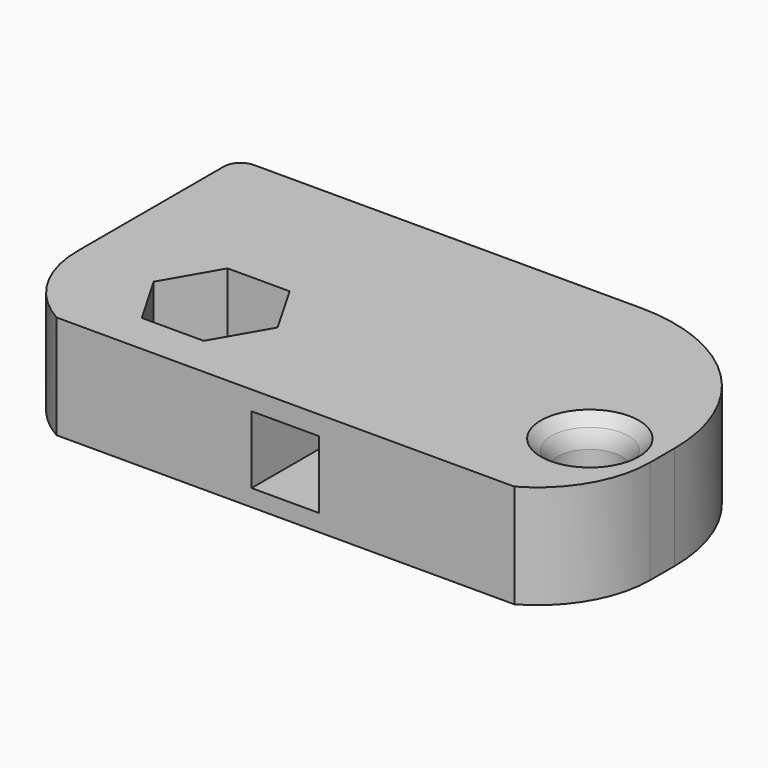
from build123d import *

# Parameters (mm, degrees)
SKETCH090_W     = 50.8
SKETCH090_H     = 27.7
PAD023_DEPTH    = 9.2
SKETCH091_W     = 6
SKETCH091_H     = 6
POCKET075_DEPTH = 10.2
SKETCH092_R     = 3
POCKET076_DEPTH = 11
POCKET077_DEPTH = 30.9
SKETCH094_R     = 2.85
POCKET078_DEPTH = 9.201
POCKET079_DEPTH = 9.201
SKETCH096_W     = 6.5
SKETCH096_H     = 6.5
PAD024_DEPTH    = 1.75
SKETCH097_W     = 5.2
SKETCH097_H     = 5.2
POCKET080_DEPTH = 1.75
FILLET004_R     = 10
FILLET005_R     = 15
FILLET006_R     = 1.5
SKETCH098_W     = 54.781057
SKETCH098_H     = 5.471817
POCKET081_DEPTH = 9.201
CHAMFER014_SIZE = 1.5
FILLET007_R     = 2


with BuildPart() as part:
    # Sketch090 → Pad023 (new body)
    with BuildSketch(Plane.XY):
        with Locations((0, -13.85)):
            Rectangle(SKETCH090_W, SKETCH090_H)
    extrude(amount=PAD023_DEPTH)

    # Sketch091 (on Face2 of Pad023) → Pocket075 (cut)
    with BuildSketch(Plane.XZ.offset(27.7)):
        with Locations((0, 4.5)):
            Rectangle(SKETCH091_W, SKETCH091_H)
    extrude(amount=-POCKET075_DEPTH, mode=Mode.SUBTRACT)

    # Sketch092 (on Face11 of Pocket075) → Pocket076 (cut)
    with BuildSketch(Plane.XZ.offset(17.5)):
        with Locations((0, 4.6)):
            Circle(SKETCH092_R)
    extrude(amount=-POCKET076_DEPTH, mode=Mode.SUBTRACT)

    # Sketch093 (on Face1 of Pocket076) → Pocket077 (cut)
    with BuildSketch(Plane(origin=(-25.4, 0, 0), x_dir=(0, -1, 0), z_dir=(-1, 0, 0))):
        Polygon((6.65774, 6.029261), (4.216094, 7.399795), (1.808354, 5.970534), (1.84226, 3.170739), (4.283906, 1.800205), (6.691646, 3.229466), align=None)
    extrude(amount=-POCKET077_DEPTH, mode=Mode.SUBTRACT)

    # Sketch094 (on Face4 of Pocket077) → Pocket078 (cut, through all)
    with BuildSketch(Plane.XY.offset(9.2)):
        with Locations((19.9, -17.515)):
            Circle(SKETCH094_R)
    extrude(amount=-POCKET078_DEPTH, mode=Mode.SUBTRACT)

    # Sketch095 (on Face4 of Pocket078) → Pocket079 (cut, through all)
    with BuildSketch(Plane.XY.offset(9.2)):
        Polygon((-7.4, -18.015), (-10.15, -13.25186), (-15.65, -13.25186), (-18.4, -18.015), (-15.65, -22.77814), (-10.15, -22.77814), align=None)
    extrude(amount=-POCKET079_DEPTH, mode=Mode.SUBTRACT)

    # Sketch096 (on Face5 of Pocket079) → Pad024 (join)
    with BuildSketch(Plane.XZ.offset(27.7)):
        with Locations((0, 4.6)):
            Rectangle(SKETCH096_W, SKETCH096_H)
    extrude(amount=PAD024_DEPTH)

    # Sketch097 (on Face29 of Pad024) → Pocket080 (cut)
    with BuildSketch(Plane.XZ.offset(29.45)):
        with Locations((0, 4.6)):
            Rectangle(SKETCH097_W, SKETCH097_H)
    extrude(amount=-POCKET080_DEPTH, mode=Mode.SUBTRACT)

    # Fillet004
    fillet004_edges = [part.edges().sort_by_distance(p)[0] for p in [
        (-25.4, -27.7, 4.6),
        (25.4, -27.7, 4.6),
    ]]
    fillet(fillet004_edges, radius=FILLET004_R)

    # Fillet005
    fillet005_edges = [part.edges().sort_by_distance(p)[0] for p in [
        (25.4, 0, 4.6),
    ]]
    fillet(fillet005_edges, radius=FILLET005_R)

    # Fillet006
    fillet006_edges = [part.edges().sort_by_distance(p)[0] for p in [
        (-25.4, 0, 4.6),
    ]]
    fillet(fillet006_edges, radius=FILLET006_R)

    # Sketch098 (on Face17 of Fillet006) → Pocket081 (cut, through all)
    with BuildSketch(Plane.XY.offset(9.2)):
        with Locations((-1.693186, -29.145549)):
            Rectangle(SKETCH098_W, SKETCH098_H)
    extrude(amount=-POCKET081_DEPTH, mode=Mode.SUBTRACT)

    # Chamfer014
    chamfer014_edges = [part.edges().sort_by_distance(p)[0] for p in [
        (17.05, -17.515, 9.2),
        (17.05, -17.515, 0),
    ]]
    chamfer(chamfer014_edges, length=CHAMFER014_SIZE)

    # Fillet007
    fillet007_edges = [part.edges().sort_by_distance(p)[0] for p in [
        (17.05, -17.515, 7.7),
        (17.05, -17.515, 1.5),
    ]]
    fillet(fillet007_edges, radius=FILLET007_R)


solid = part.part
